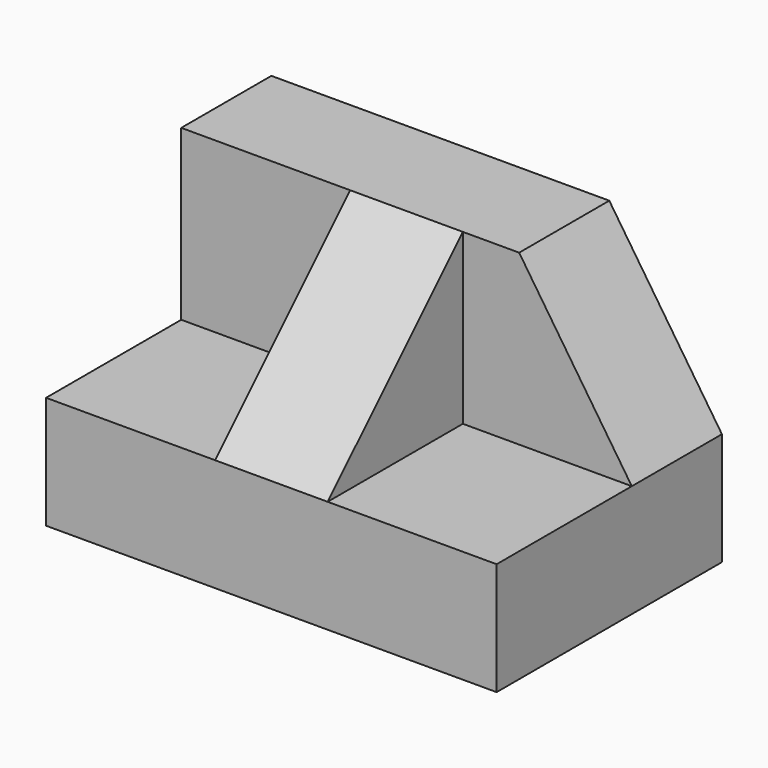
from build123d import *

# Parameters (mm, degrees)
F1_DEPTH = 50.8
F3_DEPTH = 25.4
F4_W     = 12.7
F4_H     = 19.05
F5_DEPTH = 19.05
F7_DEPTH = 25.4


with BuildPart() as f1:
    # F0 (on Right) → F1 (new body)
    with BuildSketch(Plane.YZ):
        Polygon((0, 12.7), (0, 0), (31.75, 0), (31.75, 31.75), (19.05, 31.75), (19.05, 12.7), align=None)
    extrude(amount=-F1_DEPTH)

    # F2 (on face) → F3 (cut)
    with BuildSketch(Plane.XZ.offset(-19.05)):
        Polygon((0, 31.75), (-12.7, 31.75), (0, 12.7), align=None)
    extrude(amount=-F3_DEPTH, mode=Mode.SUBTRACT)

    # F4 (on face) → F5 (join)
    with BuildSketch(Plane.XZ.offset(-19.05)):
        with Locations((-25.4, 22.225)):
            Rectangle(F4_W, F4_H)
    extrude(amount=F5_DEPTH)

    # F6 (on face) → F7 (cut)
    with BuildSketch(Plane.YZ.offset(-19.05)):
        Polygon((0, 12.7), (19.05, 31.75), (0, 31.75), align=None)
    extrude(amount=-F7_DEPTH, mode=Mode.SUBTRACT)


solid = f1.part
